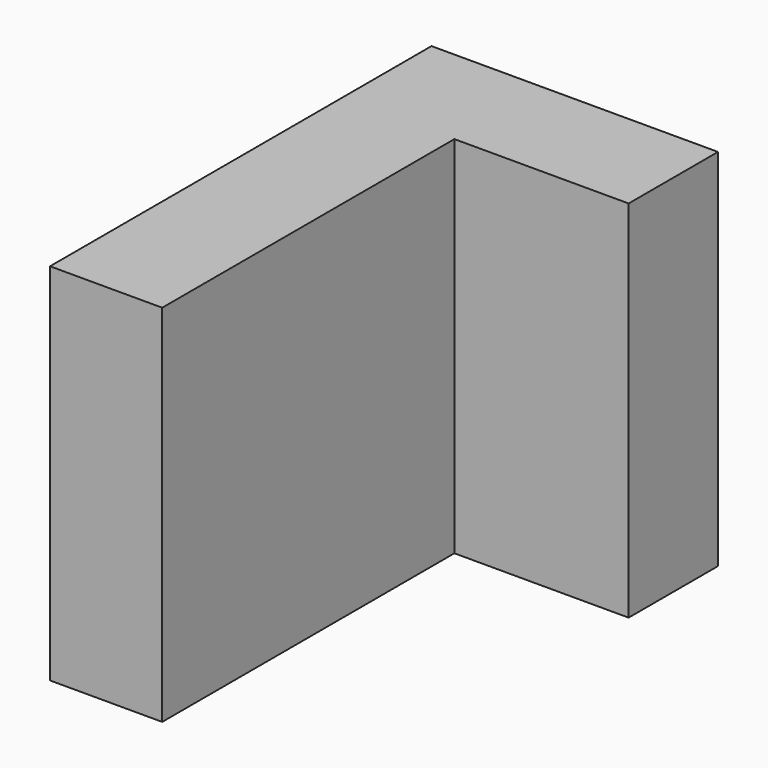
from build123d import *

# Parameters (mm, degrees)
F0_W     = 6.2131884992
F0_H     = 3.9810055999
F1_DEPTH = 13


with BuildPart() as f1:
    # F0 (on Top) → F1 (new body)
    with BuildSketch(Plane.XY):
        Polygon((-60.5168718398, 57.2218040137), (-64.5168718398, 57.2218040137), (-64.5168718398, 40.2218040137), (-60.5168718398, 40.2218040137), (-60.5168718398, 53.2407984138), align=None)
        with Locations((-57.4102775902, 55.2313012137)):
            Rectangle(F0_W, F0_H)
        Polygon((-60.5168718398, 57.2218040137), (-64.5168718398, 57.2218040137), (-64.5168718398, 40.2218040137), (-60.5168718398, 40.2218040137), (-60.5168718398, 53.2407984138), align=None)
        with Locations((-57.4102775902, 55.2313012137)):
            Rectangle(F0_W, F0_H)
    extrude(amount=F1_DEPTH)


solid = f1.part
